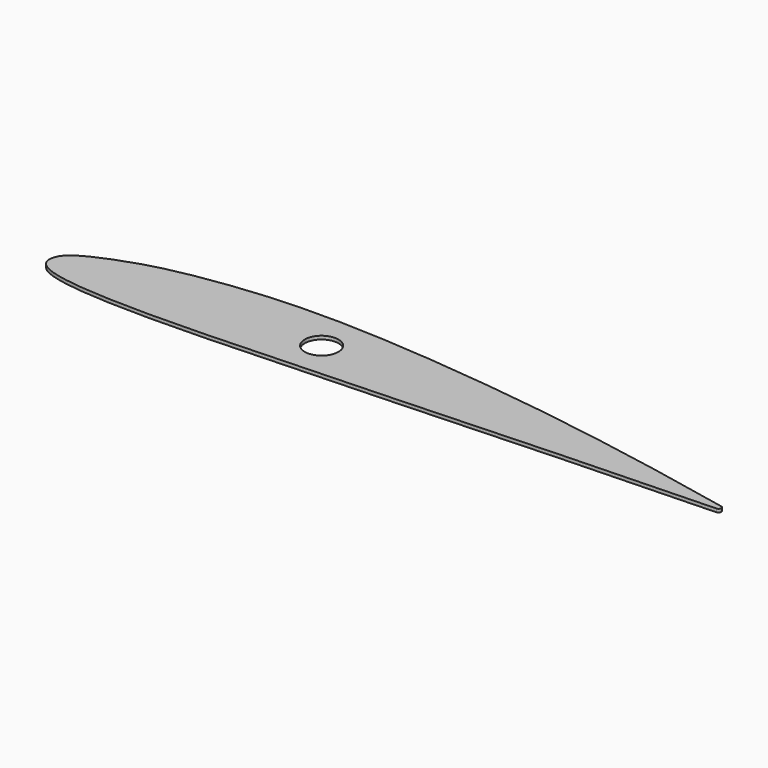
from build123d import *

# Parameters (mm, degrees)
CYLINDER002_R     = 4
CYLINDER002_DEPTH = 200
PAD004_DEPTH      = 0.8


with BuildPart() as cylinder002:
    # Cylinder002 → Cylinder002 (new body)
    with BuildSketch(Plane(origin=(-20, 0, 0), x_dir=(1, 0, 0), z_dir=(0, 0, 1))):
        Circle(CYLINDER002_R)
    extrude(amount=CYLINDER002_DEPTH)


with BuildPart() as cut002:
    # Sketch004 → Pad004 (new body)
    with BuildSketch(Plane.XY):
        with BuildLine():
            ThreePointArc((78.025462, -5.32552), (78.678238, -4.71833), (78.0769, -4.06016))
            add(Edge.make_bspline(
                [(78.0769, -4.06016), (47.672159, 2.38352), (10.59684, 7.778451), (-28.297692, 10.361855), (-50.88127, 8.243014), (-65.60959, 5.425443), (-77.851781, 0.565965), (-81.349465, -2.633806), (-81.324572, -7.281758), (-71.951108, -9.750339), (-52.073376, -10.445609), (-22.240417, -9.278015), (14.022003, -7.792926), (43.916426, -6.370697), (78.025462, -5.32552)],
                knots=[0, 0, 0, 0, 0.083333, 0.166667, 0.25, 0.333333, 0.416667, 0.5, 0.583333, 0.666667, 0.75, 0.833333, 0.916667, 1, 1, 1, 1], degree=3))
        make_face()
    extrude(amount=PAD004_DEPTH)

    # Cut002: cut Cylinder002
    add(cylinder002.part, mode=Mode.SUBTRACT)


with BuildPart() as cut002_1:
    # Cut002 placement: moved
    add(cut002.part.moved(Location((0, 0, 199.2))))


solid = cut002_1.part
